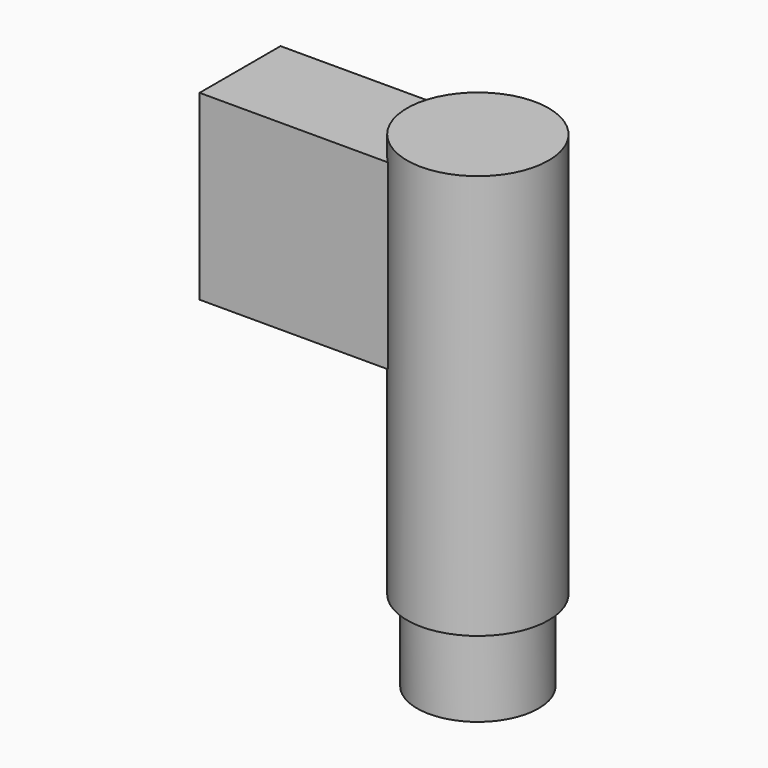
from build123d import *

# Parameters (mm, degrees)
BOX012_W          = 10
BOX012_H          = 5
BOX012_DEPTH      = 9
CYLINDER001_R     = 3
CYLINDER001_DEPTH = 4
CYLINDER_R        = 3.5
CYLINDER_DEPTH    = 20


with BuildPart() as cube010:
    # Box012 → Box012 (new body)
    with BuildSketch(Plane.XY):
        with Locations((5, 2.5)):
            Rectangle(BOX012_W, BOX012_H)
    extrude(amount=BOX012_DEPTH)


with BuildPart() as cylinder001:
    # Cylinder001 → Cylinder001 (new body)
    with BuildSketch(Plane(origin=(11.75, 2.5, -14), x_dir=(1, 0, 0), z_dir=(0, 0, 1))):
        Circle(CYLINDER001_R)
    extrude(amount=CYLINDER001_DEPTH)


with BuildPart() as usb:
    # Cylinder → Cylinder (new body)
    with BuildSketch(Plane(origin=(11.75, 2.5, -10), x_dir=(1, 0, 0), z_dir=(0, 0, 1))):
        Circle(CYLINDER_R)
    extrude(amount=CYLINDER_DEPTH)

    # Fusion001: union Cube010, Cylinder001
    add(cube010.part)
    add(cylinder001.part)


with BuildPart() as usb_1:
    # Fusion001 placement: moved
    add(usb.part.moved(Location((211.5, 4.5, 54))))


solid = usb_1.part
